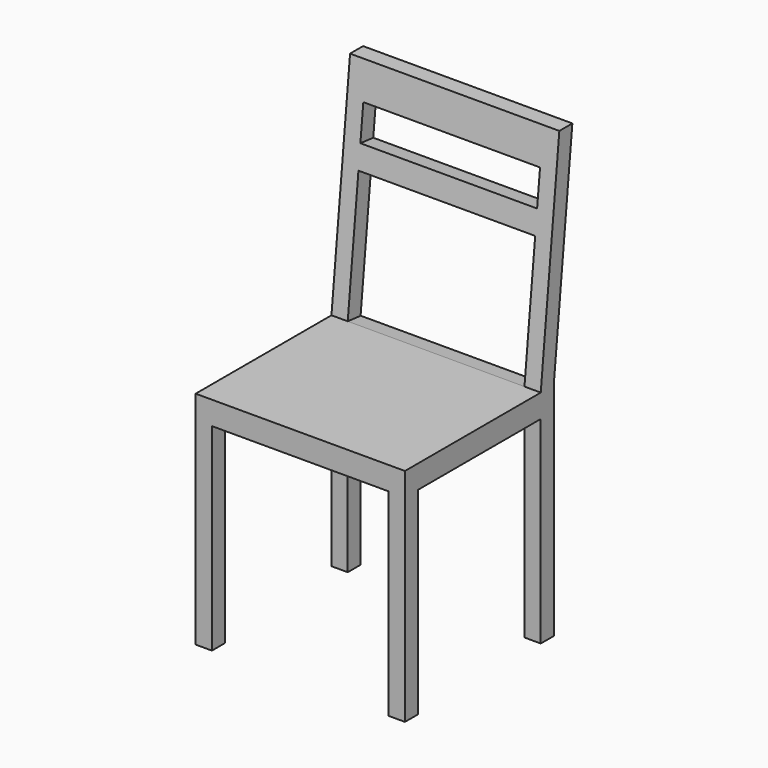
from build123d import *

# Parameters (mm, degrees)
F0_W     = 450
F0_H     = 450
F1_DEPTH = 950
F2_W     = 330
F2_H     = 425
F2_W_2   = 50
F3_DEPTH = 450.001
F4_W     = 380
F4_H     = 425
F5_DEPTH = 450.001
F6_W     = 380
F6_H     = 75
F6_H_2   = 275
F7_DEPTH = 134.2592361444


with BuildPart() as f1:
    # F0 (on Top) → F1 (new body)
    with BuildSketch(Plane.XY):
        Rectangle(F0_W, F0_H)
    extrude(amount=F1_DEPTH)

    # F2 (on face) → F3 (cut, through all)
    with BuildSketch(Plane.YZ.offset(225)):
        Polygon((225, 473.0396032333), (225, 475), (175, 475), (175, 425), (225, 425), align=None)
        Polygon((-225, 475), (140, 475), (190, 950), (-225, 950), (-225, 495.331287384), (-225, 493.3708906174), align=None)
        with Locations((-25, 212.5)):
            Rectangle(F2_W, F2_H)
        with Locations((200, 212.5)):
            Rectangle(F2_W_2, F2_H)
        Polygon((175, 475), (225, 475), (225, 950), align=None)
    extrude(amount=-F3_DEPTH, mode=Mode.SUBTRACT)

    # F4 (on face) → F5 (cut, through all)
    with BuildSketch(Plane.XZ.offset(225)):
        with Locations((0, 212.5)):
            Rectangle(F4_W, F4_H)
    extrude(amount=-F5_DEPTH, mode=Mode.SUBTRACT)

    # F6 (on face) → F7 (cut, through all)
    with BuildSketch(Plane(origin=(0, 89.0136986301, -9.3698630137), x_dir=(1, 0, 0), z_dir=(0, -0.9945054529, 0.1046847845))):
        with Locations((0, 849.5459599702)):
            Rectangle(F6_W, F6_H)
        with Locations((0, 624.5459599702)):
            Rectangle(F6_W, F6_H_2)
    extrude(amount=-F7_DEPTH, mode=Mode.SUBTRACT)


solid = f1.part
